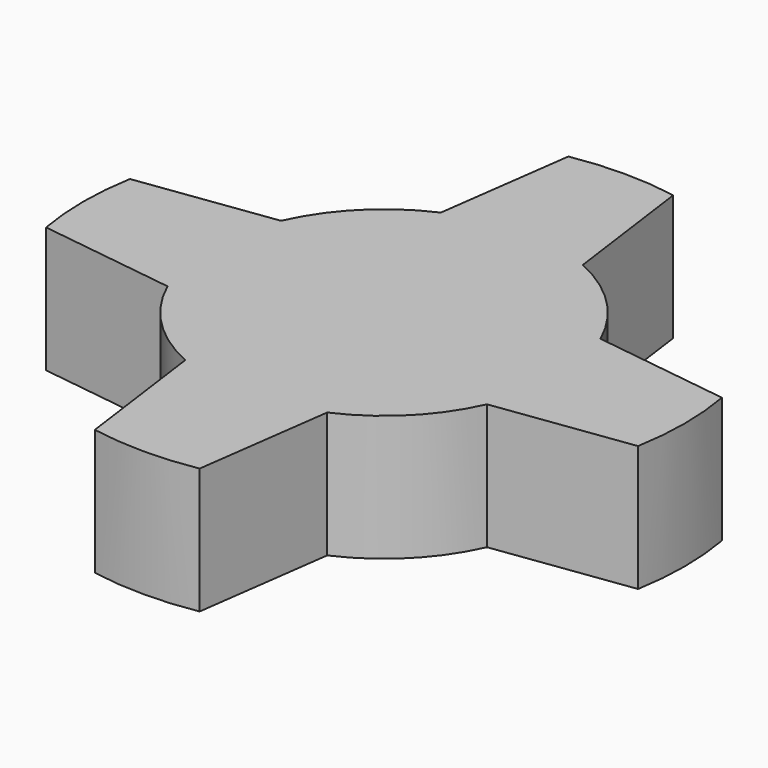
from build123d import *

# Parameters (mm, degrees)
F1_DEPTH = 22.86


with BuildPart() as f1:
    # F0 (on Top) → F1 (new body)
    with BuildSketch(Plane.XY):
        with BuildLine():
            Line((26.67, 13.208), (29.0160491531, 12.8891966989))
            ThreePointArc((29.0160491531, 12.8891966989), (22.4506403027, 22.4506403027), (12.8891966989, 29.0160491531))
            Line((12.8891966989, 29.0160491531), (13.208, 26.67))
            Line((13.208, 26.67), (0, 26.67))
            Line((0, 26.67), (-13.208, 26.67))
            Line((-13.208, 26.67), (-12.8891966989, 29.0160491531))
            ThreePointArc((-12.8891966989, 29.0160491531), (-22.4506403027, 22.4506403027), (-29.0160491531, 12.8891966989))
            Line((-29.0160491531, 12.8891966989), (-26.67, 13.208))
            Line((-26.67, 13.208), (-26.67, 0))
            Line((-26.67, 0), (-26.67, -13.208))
            Line((-26.67, -13.208), (-29.0160491531, -12.8891966989))
            ThreePointArc((-29.0160491531, -12.8891966989), (-22.4506403027, -22.4506403027), (-12.8891966989, -29.0160491531))
            Line((-12.8891966989, -29.0160491531), (-13.208, -26.67))
            Line((-13.208, -26.67), (0, -26.67))
            Line((0, -26.67), (13.208, -26.67))
            Line((13.208, -26.67), (12.8891966989, -29.0160491531))
            ThreePointArc((12.8891966989, -29.0160491531), (22.4506403027, -22.4506403027), (29.0160491531, -12.8891966989))
            Line((29.0160491531, -12.8891966989), (26.67, -13.208))
            Line((26.67, -13.208), (26.67, 0))
            Line((26.67, 0), (26.67, 13.208))
        make_face()
        with BuildLine():
            Line((-26.67, 13.208), (-29.0160491531, 12.8891966989))
            ThreePointArc((-29.0160491531, 12.8891966989), (-31.75, 0), (-29.0160491531, -12.8891966989))
            Line((-29.0160491531, -12.8891966989), (-26.67, -13.208))
            Line((-26.67, -13.208), (-26.67, 0))
            Line((-26.67, 0), (-26.67, 13.208))
        make_face()
        with BuildLine():
            ThreePointArc((-29.0160491531, -12.8891966989), (-31.75, 0), (-29.0160491531, 12.8891966989))
            Line((-29.0160491531, 12.8891966989), (-53.7729158127, 9.525))
            ThreePointArc((-53.7729158127, 9.525), (-54.61, 0), (-53.7729158127, -9.525))
            Line((-53.7729158127, -9.525), (-29.0160491531, -12.8891966989))
        make_face()
        with BuildLine():
            Line((9.525, -53.7729158127), (12.8891966989, -29.0160491531))
            ThreePointArc((12.8891966989, -29.0160491531), (0, -31.75), (-12.8891966989, -29.0160491531))
            Line((-12.8891966989, -29.0160491531), (-9.525, -53.7729158127))
            ThreePointArc((-9.525, -53.7729158127), (0, -54.61), (9.525, -53.7729158127))
        make_face()
        with BuildLine():
            ThreePointArc((-12.8891966989, -29.0160491531), (0, -31.75), (12.8891966989, -29.0160491531))
            Line((12.8891966989, -29.0160491531), (13.208, -26.67))
            Line((13.208, -26.67), (0, -26.67))
            Line((0, -26.67), (-13.208, -26.67))
            Line((-13.208, -26.67), (-12.8891966989, -29.0160491531))
        make_face()
        with BuildLine():
            ThreePointArc((29.0160491531, -12.8891966989), (31.0589927446, -6.5879791813), (31.75, 0))
            ThreePointArc((31.75, 0), (31.0589927446, 6.5879791813), (29.0160491531, 12.8891966989))
            Line((29.0160491531, 12.8891966989), (26.67, 13.208))
            Line((26.67, 13.208), (26.67, 0))
            Line((26.67, 0), (26.67, -13.208))
            Line((26.67, -13.208), (29.0160491531, -12.8891966989))
        make_face()
        with BuildLine():
            ThreePointArc((29.0160491531, 12.8891966989), (31.0589927446, 6.5879791813), (31.75, 0))
            ThreePointArc((31.75, 0), (31.0589927446, -6.5879791813), (29.0160491531, -12.8891966989))
            Line((29.0160491531, -12.8891966989), (53.7729158127, -9.525))
            ThreePointArc((53.7729158127, -9.525), (54.61, 0), (53.7729158127, 9.525))
            Line((53.7729158127, 9.525), (29.0160491531, 12.8891966989))
        make_face()
        with BuildLine():
            Line((13.208, 26.67), (12.8891966989, 29.0160491531))
            ThreePointArc((12.8891966989, 29.0160491531), (0, 31.75), (-12.8891966989, 29.0160491531))
            Line((-12.8891966989, 29.0160491531), (-13.208, 26.67))
            Line((-13.208, 26.67), (0, 26.67))
            Line((0, 26.67), (13.208, 26.67))
        make_face()
        with BuildLine():
            ThreePointArc((-12.8891966989, 29.0160491531), (0, 31.75), (12.8891966989, 29.0160491531))
            Line((12.8891966989, 29.0160491531), (9.525, 53.7729158127))
            ThreePointArc((9.525, 53.7729158127), (0, 54.61), (-9.525, 53.7729158127))
            Line((-9.525, 53.7729158127), (-12.8891966989, 29.0160491531))
        make_face()
    extrude(amount=F1_DEPTH)


solid = f1.part
